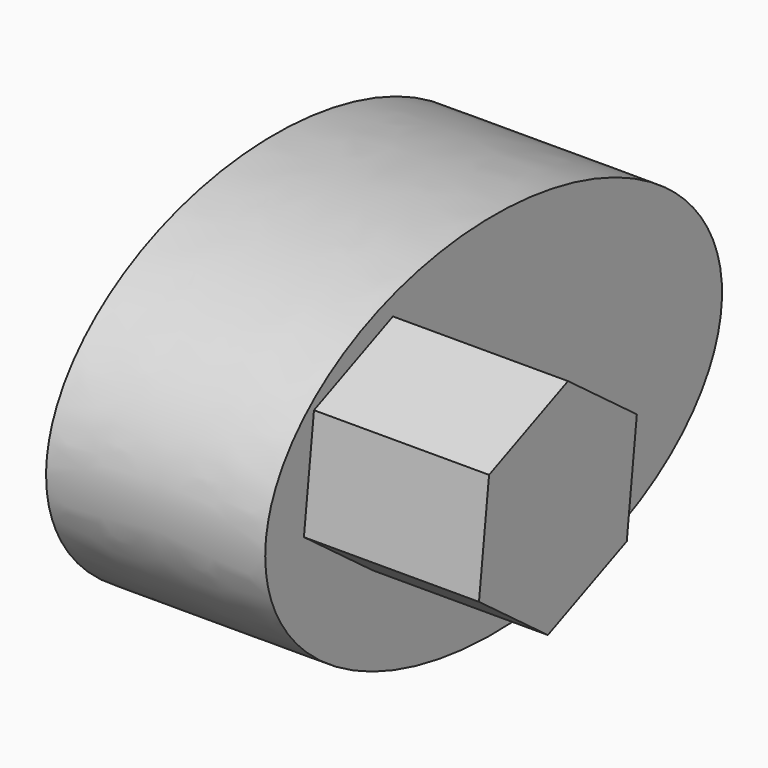
from build123d import *

# Parameters (mm, degrees)
F1_DEPTH = 31.794915
F4_DEPTH = 25.4


with BuildPart() as f1:
    # F0 (on Right) → F1 (new body)
    with BuildSketch(Plane.YZ):
        with BuildLine():
            add(Edge.make_bspline(
                [(-41.421324, 0), (-41.421324, -46.25414), (20.710662, -23.12707), (82.842648, 0), (20.710662, 23.12707), (-41.421324, 46.25414), (-41.421324, 0)],
                knots=[0, 0, 0, 2.094395, 2.094395, 4.18879, 4.18879, 6.283185, 6.283185, 6.283185], degree=2, weights=[1, 0.5, 1, 0.5, 1, 0.5, 1]))
        make_face()
    extrude(amount=F1_DEPTH)

    # F3 (on face) → F4 (join)
    with BuildSketch(Plane.YZ.offset(31.794915)):
        Polygon((-34.405612, -0.405281), (-21.918103, -9.724735), (-7.603465, -3.569963), (-5.776334, 11.904264), (-18.263843, 21.223718), (-32.578481, 15.068946), align=None)
    extrude(amount=F4_DEPTH)


solid = f1.part
